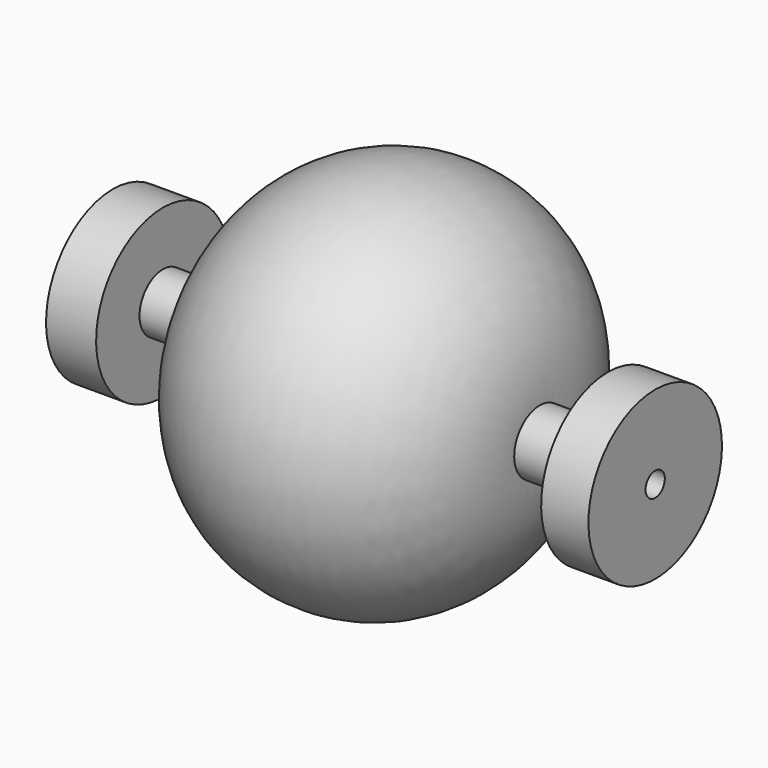
from build123d import *


with BuildPart() as f1:
    # F0 (on Front) → F1 (revolve)
    with BuildSketch(Plane.XZ):
        with BuildLine():
            Line((-143.131056, 6.35), (143.131047, 6.35))
            Line((143.131047, 6.35), (143.131047, 44.040326))
            Line((143.131047, 44.040326), (118.174866, 44.040326))
            Line((118.174866, 44.040326), (118.174866, 16.882123))
            Line((118.174866, 16.882123), (82.221713, 16.882123))
            ThreePointArc((82.221713, 16.882123), (-0.734034, 99.100559), (-82.208606, 15.414114))
            Line((-82.208606, 15.414114), (-116.706862, 15.414114))
            Line((-116.706862, 15.414114), (-116.706862, 44.040326))
            Line((-116.706862, 44.040326), (-143.131056, 44.040326))
            Line((-143.131056, 44.040326), (-143.131056, 6.35))
        make_face()
    revolve(axis=Axis((0.632903, 0, 0), (1, 0, 0)))


solid = f1.part
